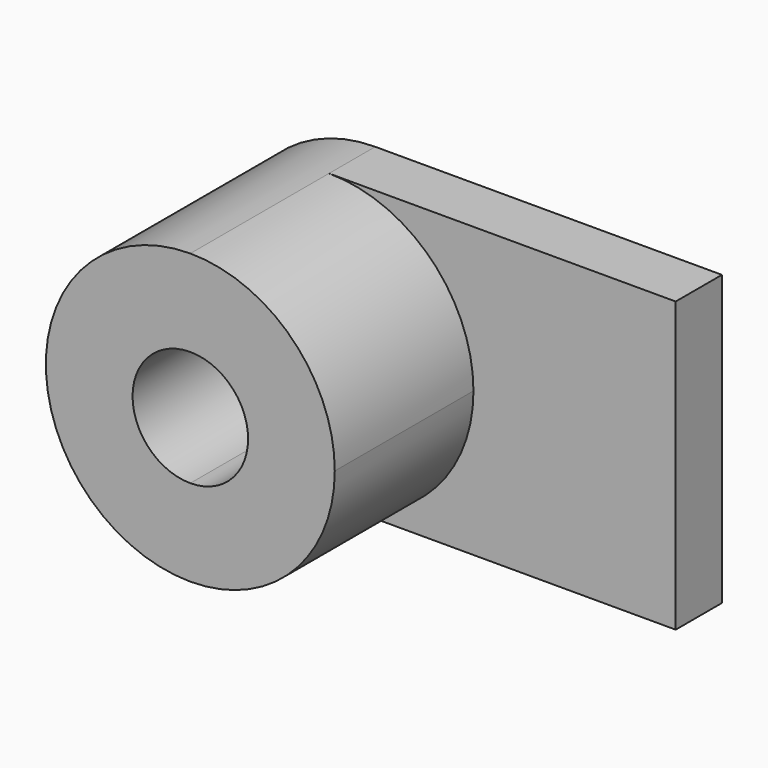
from build123d import *

# Parameters (mm, degrees)
F1_DEPTH = 12.7
F2_DEPTH = 50.8


with BuildPart() as f1:
    # F0 (on Front) → F1 (new body)
    with BuildSketch(Plane.XZ):
        with BuildLine():
            ThreePointArc((-38.1, 31.75), (-69.85, 0), (-38.1, -31.75))
            Line((-38.1, -31.75), (-38.1, -12.7))
            ThreePointArc((-38.1, -12.7), (-50.8, 0), (-38.1, 12.7))
            Line((-38.1, 12.7), (-38.1, 31.75))
        make_face()
        with BuildLine():
            ThreePointArc((-6.35, 0), (-15.64936, -22.45064), (-38.1, -31.75))
            Line((-38.1, -31.75), (38.1, -31.75))
            Line((38.1, -31.75), (38.1, 31.75))
            Line((38.1, 31.75), (-38.1, 31.75))
            ThreePointArc((-38.1, 31.75), (-15.64936, 22.45064), (-6.35, 0))
        make_face()
        with BuildLine():
            Line((-38.1, -12.7), (-38.1, -31.75))
            ThreePointArc((-38.1, -31.75), (-15.64936, -22.45064), (-6.35, 0))
            ThreePointArc((-6.35, 0), (-15.64936, 22.45064), (-38.1, 31.75))
            Line((-38.1, 31.75), (-38.1, 12.7))
            ThreePointArc((-38.1, 12.7), (-29.119744, 8.980256), (-25.4, 0))
            ThreePointArc((-25.4, 0), (-29.119744, -8.980256), (-38.1, -12.7))
        make_face()
    extrude(amount=F1_DEPTH)

    # F0 (on Front) → F2 (join)
    with BuildSketch(Plane.XZ):
        with BuildLine():
            ThreePointArc((-38.1, 31.75), (-69.85, 0), (-38.1, -31.75))
            Line((-38.1, -31.75), (-38.1, -12.7))
            ThreePointArc((-38.1, -12.7), (-50.8, 0), (-38.1, 12.7))
            Line((-38.1, 12.7), (-38.1, 31.75))
        make_face()
        with BuildLine():
            Line((-38.1, -12.7), (-38.1, -31.75))
            ThreePointArc((-38.1, -31.75), (-15.64936, -22.45064), (-6.35, 0))
            ThreePointArc((-6.35, 0), (-15.64936, 22.45064), (-38.1, 31.75))
            Line((-38.1, 31.75), (-38.1, 12.7))
            ThreePointArc((-38.1, 12.7), (-29.119744, 8.980256), (-25.4, 0))
            ThreePointArc((-25.4, 0), (-29.119744, -8.980256), (-38.1, -12.7))
        make_face()
    extrude(amount=F2_DEPTH)


solid = f1.part
